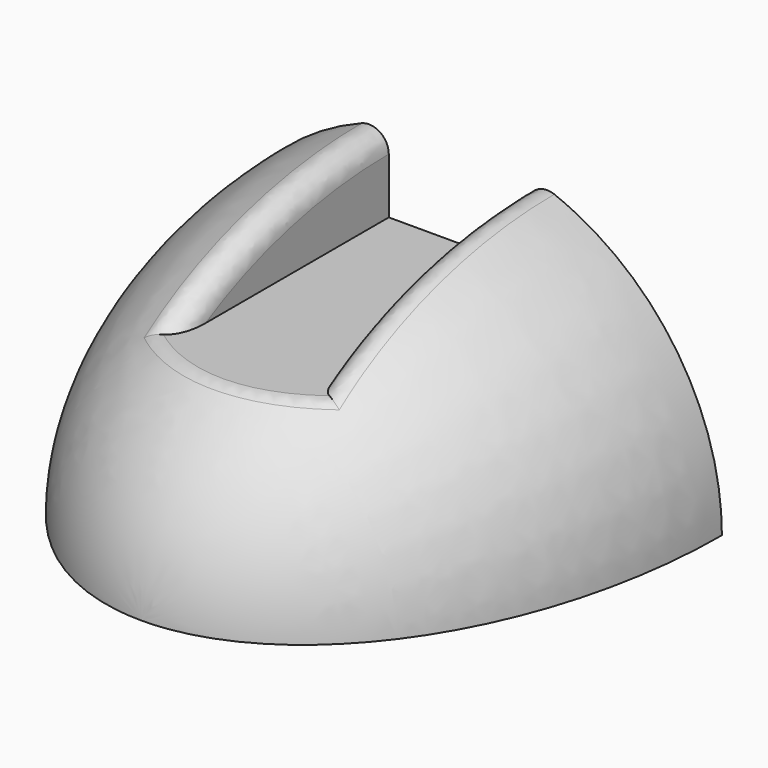
from build123d import *

# Parameters (mm, degrees)
F1_ANGLE_BACK = 90
F1_ANGLE      = 180
F3_W          = 21
F3_H          = 200
F4_DEPTH      = 14.0010001
F5_W          = 404.4582343734
F5_H          = 200
F6_DEPTH      = 38.5982797969
F7_R          = 3


with BuildPart() as f1:
    # F0 (on Right) → F1 (revolve)
    with BuildSketch(Plane.YZ, mode=Mode.PRIVATE) as f1_sk:
        with BuildLine():
            Line((-60, 0), (60, 0))
            add(Edge.make_bspline(
                [(60, 0), (60, 40), (0, 40), (-60, 40), (-60, 0)],
                knots=[3.1415926536, 3.1415926536, 3.1415926536, 4.7123889804, 4.7123889804, 6.2831853072, 6.2831853072, 6.2831853072], degree=2, weights=[1, 0.7071067812, 1, 0.7071067812, 1]))
        make_face()
    revolve(f1_sk.sketch.rotate(Axis((0, 0, 0), (0, 1, 0)), -F1_ANGLE_BACK), axis=Axis((0, 0, 0), (0, 1, 0)), revolution_arc=F1_ANGLE)

    # F3 (on offset) → F4 (cut, through all)
    with BuildSketch(Plane.XY.offset(26)):
        Rectangle(F3_W, F3_H)
    extrude(amount=F4_DEPTH, mode=Mode.SUBTRACT)

    # F5 (on Top) → F6 (cut, through all)
    with BuildSketch(Plane.XY):
        with Locations((8.3999349927, 100)):
            Rectangle(F5_W, F5_H)
    extrude(amount=F6_DEPTH, mode=Mode.SUBTRACT)

    # F7
    f7_edges = [f1.edges().sort_by_distance(p)[0] for p in [
        (-10.5, -22.391395, 35.593775),
        (10.5, -22.391395, 35.593775),
        (0, -45.596052, 26),
    ]]
    fillet(f7_edges, radius=F7_R)


solid = f1.part
